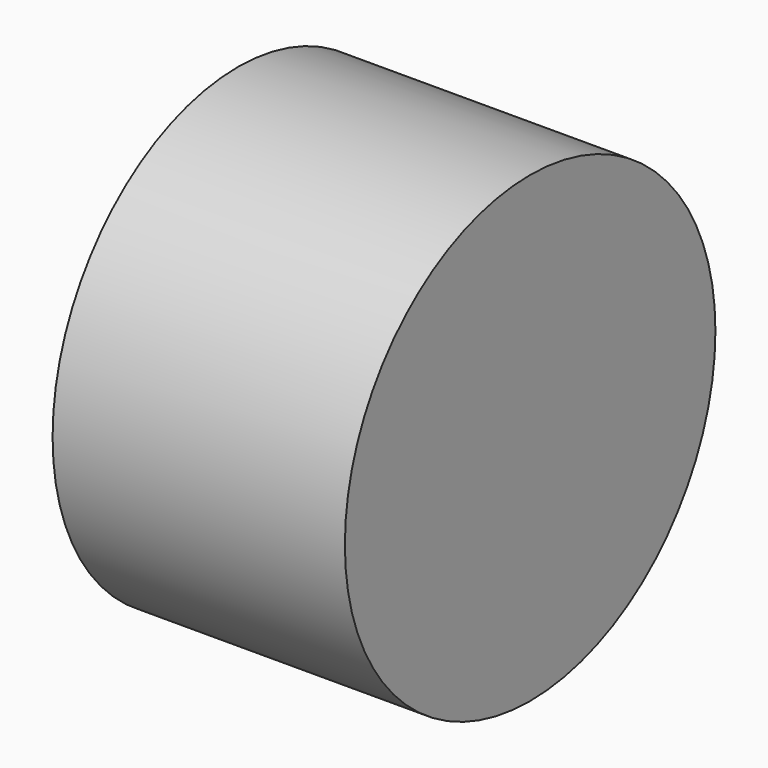
from build123d import *

# Parameters (mm, degrees)
F0_R     = 127
F1_DEPTH = 160.284134


with BuildPart() as f1:
    # F0 (on Right) → F1 (new body)
    with BuildSketch(Plane.YZ):
        Circle(F0_R)
        Circle(F0_R)
    extrude(amount=F1_DEPTH)


solid = f1.part
